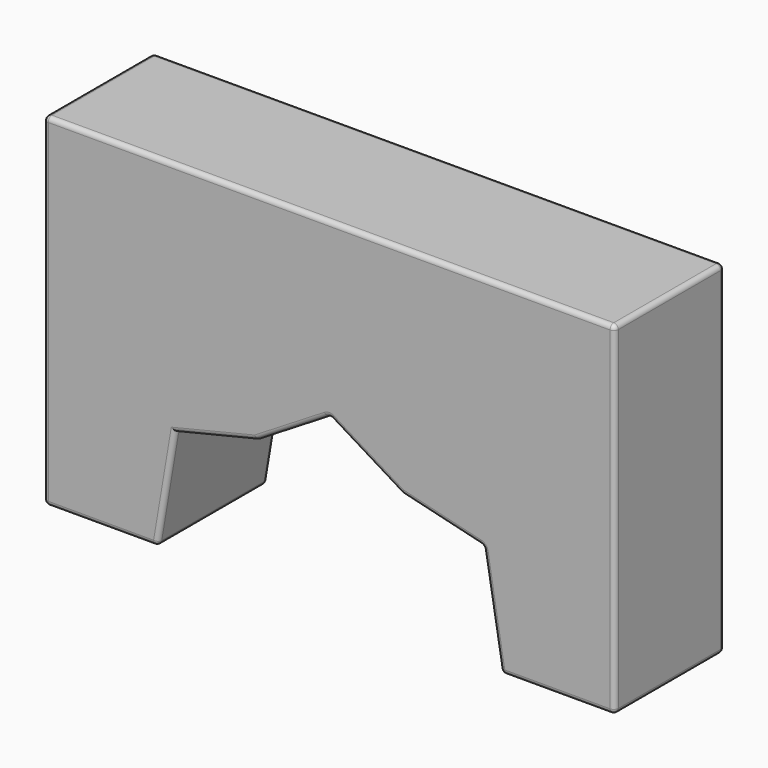
from build123d import *

# Parameters (mm, degrees)
F1_DEPTH = 60
F3_DEPTH = 60
F4_R     = 2


with BuildPart() as f1:
    # F0 (on Front) → F1 (new body)
    with BuildSketch(Plane.XZ):
        Polygon((-125, 0), (0, 0), (125, 0), (125, 150), (-125, 150), align=None)
    extrude(amount=F1_DEPTH)

    # F2 (on Front) → F3 (cut)
    with BuildSketch(Plane.XZ):
        Polygon((-67.3774927855, 46.4679524302), (-75.1930549741, 0), (75.1930549741, 0), (67.3774927855, 46.4679524302), (31.8278856575, 55.0686642528), (0, 74.5636075735), (-31.8278856575, 55.0686642528), align=None)
    extrude(amount=F3_DEPTH, mode=Mode.SUBTRACT)

    # F4
    f4_edges = [f1.edges().sort_by_distance(p)[0] for p in [
        (-125, -60, 75),
        (0, -60, 150),
        (125, -60, 75),
        (-125, -30, 150),
        (125, -30, 150),
        (0, 0, 150),
        (-125, 0, 75),
        (-125, -30, 0),
        (125, 0, 75),
        (125, -30, 0),
        (100.096527, 0, 0),
        (75.193055, -30, 0),
        (100.096527, -60, 0),
        (-100.096527, -60, 0),
        (-71.285274, -60, 23.233976),
        (-49.602689, -60, 50.768308),
        (-15.913943, -60, 64.816136),
        (31.827886, -30, 55.068664),
        (-31.827886, -30, 55.068664),
        (0, -30, 74.563608),
        (15.913943, -60, 64.816136),
        (49.602689, -60, 50.768308),
        (67.377493, -30, 46.467952),
        (71.285274, -60, 23.233976),
        (-100.096527, 0, 0),
        (-75.193055, -30, 0),
        (71.285274, 0, 23.233976),
        (15.913943, 0, 64.816136),
        (49.602689, 0, 50.768308),
        (-15.913943, 0, 64.816136),
        (-49.602689, 0, 50.768308),
        (-71.285274, 0, 23.233976),
    ]]
    fillet(f4_edges, radius=F4_R)


solid = f1.part
